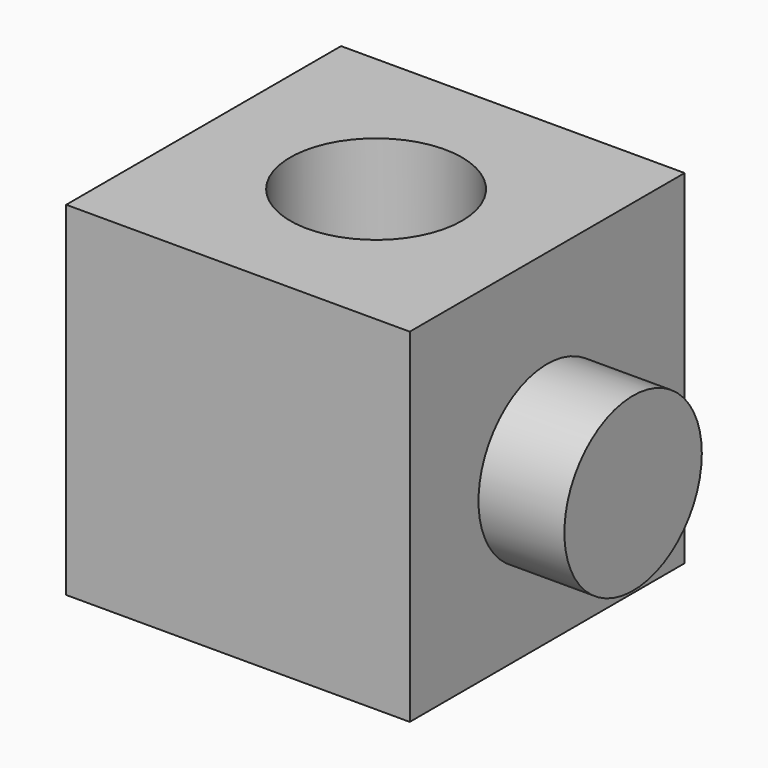
from build123d import *

# Parameters (mm, degrees)
F0_W     = 50.8
F0_H     = 50.8
F1_DEPTH = 50.8
F2_W     = 25.4
F2_H     = 25.4
F3_DEPTH = 12.7
F4_R     = 12.7
F5_DEPTH = 12.7
F6_R     = 12.7
F7_DEPTH = 50.8


with BuildPart() as f1:
    # F0 (on Front) → F1 (new body)
    with BuildSketch(Plane.XZ):
        with Locations((-0.09851, 1.8171)):
            Rectangle(F0_W, F0_H)
    extrude(amount=F1_DEPTH)

    # F2 (on Front) → F3 (join)
    with BuildSketch(Plane.XZ):
        with Locations((-0.09851, 1.8171)):
            Rectangle(F2_W, F2_H)
    extrude(amount=-F3_DEPTH)

    # F4 (on face) → F5 (join)
    with BuildSketch(Plane.YZ.offset(25.30149)):
        with Locations((-25.4, 0)):
            Circle(F4_R)
    extrude(amount=F5_DEPTH)

    # F6 (on face) → F7 (cut)
    with BuildSketch(Plane.XY.offset(27.2171)):
        with Locations((0, -25.4)):
            Circle(F6_R)
    extrude(amount=-F7_DEPTH, mode=Mode.SUBTRACT)


solid = f1.part
